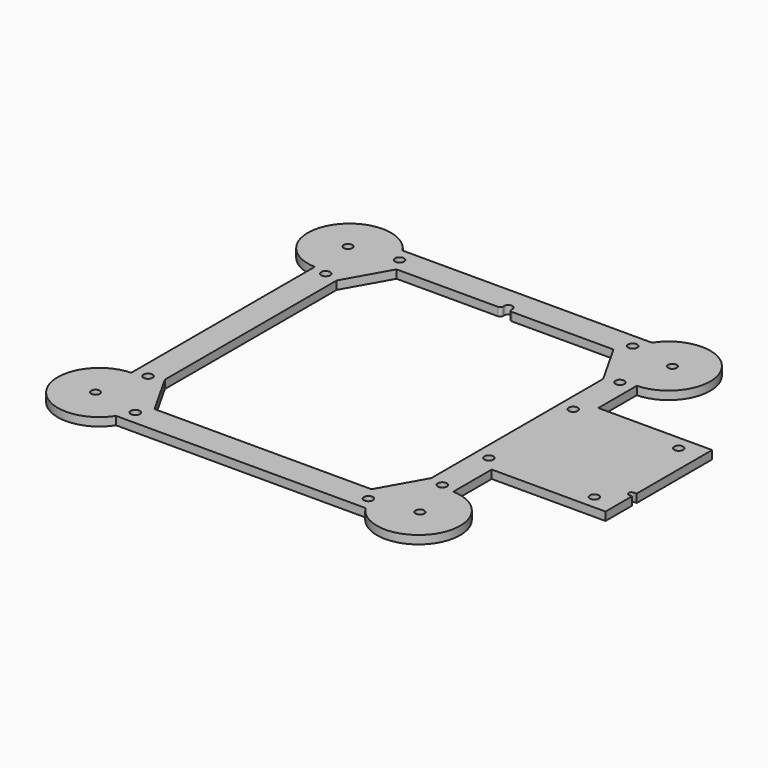
from build123d import *

# Parameters (mm, degrees)
F0_R     = 1.55
F0_R_2   = 1.625
F1_DEPTH = 3
F2_W     = 28.2
F2_H     = 28.2
F3_DEPTH = 3
F5_DEPTH = 25
F7_DEPTH = 25
F8_R     = 1


with BuildPart() as f1:
    # F0 (on Top) → F1 (new body)
    with BuildSketch(Plane.XY):
        with BuildLine():
            Line((58, 24), (58, 41.313006))
            ThreePointArc((58, 41.313006), (70.547763, 63.673914), (44.920157, 64.5))
            Line((44.920157, 64.5), (0, 64.5))
            Line((0, 64.5), (-44.920157, 64.5))
            ThreePointArc((-44.920157, 64.5), (-70.547763, 63.673914), (-58, 41.313006))
            Line((-58, 41.313006), (-58, 0))
            Line((-58, 0), (-58, -41.313006))
            ThreePointArc((-58, -41.313006), (-70.547763, -63.673914), (-44.920157, -64.5))
            Line((-44.920157, -64.5), (0, -64.5))
            Line((0, -64.5), (44.920157, -64.5))
            ThreePointArc((44.920157, -64.5), (70.547763, -63.673914), (58, -41.313006))
            Line((58, -41.313006), (58, -24))
            Line((58, -24), (99, -24))
            Line((99, -24), (99, 24))
            Line((99, 24), (58, 24))
        make_face()
        with Locations((-58.427906, -56.837072)):
            Circle(F0_R, mode=Mode.SUBTRACT)
        with Locations((-42, -59.5)):
            Circle(F0_R_2, mode=Mode.SUBTRACT)
        with Locations((-53, -40)):
            Circle(F0_R_2, mode=Mode.SUBTRACT)
        with Locations((42, -59.5)):
            Circle(F0_R_2, mode=Mode.SUBTRACT)
        with Locations((53, -40)):
            Circle(F0_R_2, mode=Mode.SUBTRACT)
        with Locations((58.427906, -56.837072)):
            Circle(F0_R, mode=Mode.SUBTRACT)
        with Locations((53, -19)):
            Circle(F0_R_2, mode=Mode.SUBTRACT)
        with Locations((91, -19)):
            Circle(F0_R_2, mode=Mode.SUBTRACT)
        Polygon((39.079843, 54.5), (48, 38.686994), (48, 0), (48, -38.686994), (39.079843, -54.5), (0, -54.5), (-39.079843, -54.5), (-48, -38.686994), (-48, 0), (-48, 38.686994), (-39.079843, 54.5), (0, 54.5), align=None, mode=Mode.SUBTRACT)
        with Locations((-53, 40)):
            Circle(F0_R_2, mode=Mode.SUBTRACT)
        with Locations((-58.427906, 56.837072)):
            Circle(F0_R, mode=Mode.SUBTRACT)
        with Locations((-42, 59.5)):
            Circle(F0_R_2, mode=Mode.SUBTRACT)
        with Locations((53, 19)):
            Circle(F0_R_2, mode=Mode.SUBTRACT)
        Polygon((86, 14), (86, -14), (58, -14), (58, 0), (58, 14), align=None, mode=Mode.SUBTRACT)
        with Locations((91, 19)):
            Circle(F0_R_2, mode=Mode.SUBTRACT)
        with Locations((53, 40)):
            Circle(F0_R_2, mode=Mode.SUBTRACT)
        with Locations((42, 59.5)):
            Circle(F0_R_2, mode=Mode.SUBTRACT)
        with Locations((58.427906, 56.837072)):
            Circle(F0_R, mode=Mode.SUBTRACT)
    extrude(amount=F1_DEPTH)

    # F2 (on Top) → F3 (join)
    with BuildSketch(Plane.XY):
        with Locations((72, 0)):
            Rectangle(F2_W, F2_H)
    extrude(amount=F3_DEPTH)

    # F4 (on face) → F5 (cut)
    with BuildSketch(Plane.XY.offset(3)):
        with BuildLine():
            Line((99, -10), (98, -10))
            ThreePointArc((98, -10), (97, -11), (98, -12))
            Line((98, -12), (99, -12))
            Line((99, -12), (99, -10))
        make_face()
    extrude(amount=-F5_DEPTH, mode=Mode.SUBTRACT)

    # F6 (on Top) → F7 (cut)
    with BuildSketch(Plane.XY):
        with BuildLine():
            Line((1.5, 54.5), (1.5, 56))
            ThreePointArc((1.5, 56), (0, 57.5), (-1.5, 56))
            Line((-1.5, 56), (-1.5, 54.5))
            Line((-1.5, 54.5), (1.5, 54.5))
        make_face()
    extrude(amount=F7_DEPTH, mode=Mode.SUBTRACT)

    # F8
    f8_edges = [f1.edges().sort_by_distance(p)[0] for p in [
        (-1.5, 54.5, 1.5),
        (1.5, 54.5, 1.5),
    ]]
    fillet(f8_edges, radius=F8_R)


solid = f1.part
